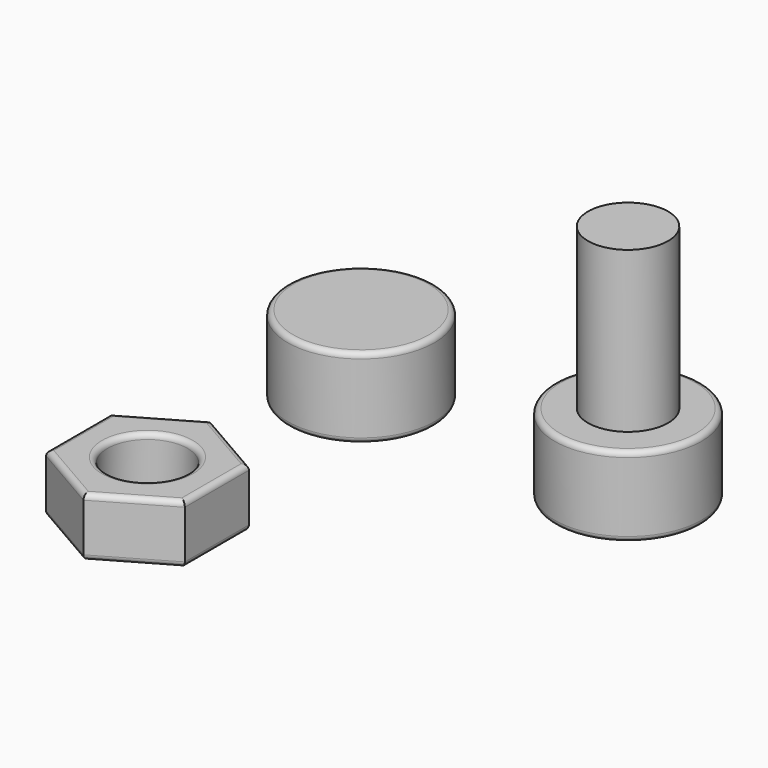
from build123d import *

# Parameters (mm, degrees)
F0_R      = 1.5
F1_DEPTH  = 2.2
F2_R      = 0.2
F4_R      = 2.75
F5_DEPTH  = 3
F7_DEPTH  = 1.5
F8_R      = 0.2
F11_R     = 1.5
F12_DEPTH = 6


with BuildPart() as f1:
    # F0 (on Top) → F1 (new body)
    with BuildSketch(Plane.XY):
        Polygon((2.5980762114, 1.5), (0, 3), (-2.5980762114, 1.5), (-2.5980762114, -1.5), (0, -3), (2.5980762114, -1.5), align=None)
        Circle(F0_R, mode=Mode.SUBTRACT)
    extrude(amount=F1_DEPTH)

    # F2
    f2_edges = [f1.edges().sort_by_distance(p)[0] for p in [
        (1.299038, 2.25, 2.2),
        (-1.299038, 2.25, 2.2),
        (-2.598076, 0, 2.2),
        (-1.299038, -2.25, 2.2),
        (1.299038, -2.25, 2.2),
        (2.598076, 0, 2.2),
        (-1.5, 0, 2.2),
        (1.299038, 2.25, 0),
        (-1.299038, 2.25, 0),
        (-2.598076, 0, 0),
        (-1.299038, -2.25, 0),
        (1.299038, -2.25, 0),
        (2.598076, 0, 0),
        (-1.5, 0, 0),
    ]]
    fillet(f2_edges, radius=F2_R)


with BuildPart() as f1_1:
    # F3: moved
    add(f1.part.moved(Location((-10, 0, 0))))


with BuildPart() as f5:
    # F4 (on Top) → F5 (new body)
    with BuildSketch(Plane.XY):
        Circle(F4_R)
    extrude(amount=F5_DEPTH)

    # F6 (on face) → F7 (cut)
    with BuildSketch(Plane(origin=(0, 0, 0), x_dir=(1, 0, 0), z_dir=(0, 0, -1))):
        Polygon((0.7216878365, 1.25), (-0.7216878365, 1.25), (-1.443375673, 0), (-0.7216878365, -1.25), (0.7216878365, -1.25), (1.443375673, 0), align=None)
    extrude(amount=-F7_DEPTH, mode=Mode.SUBTRACT)

    # F8
    f8_edges = [f5.edges().sort_by_distance(p)[0] for p in [
        (-2.75, 0, 0),
        (1.082532, -0.625, 0),
        (1.082532, 0.625, 0),
        (0, 1.25, 0),
        (-1.082532, 0.625, 0),
        (-1.082532, -0.625, 0),
        (0, -1.25, 0),
        (-2.75, 0, 3),
    ]]
    fillet(f8_edges, radius=F8_R)


with BuildPart() as f5_1:
    # F9: moved
    add(f5.part.moved(Location((-10, 10, 0))))


with BuildPart() as f10_1:
    # F10: copy of F5
    add(f5_1.part.moved(Location((10, 0, 0))))

    # F11 (on face) → F12 (join)
    with BuildSketch(Plane.XY.offset(3)):
        with Locations((0, 10)):
            Circle(F11_R)
    extrude(amount=F12_DEPTH)


solid = Compound([f1_1.part, f5_1.part, f10_1.part])
